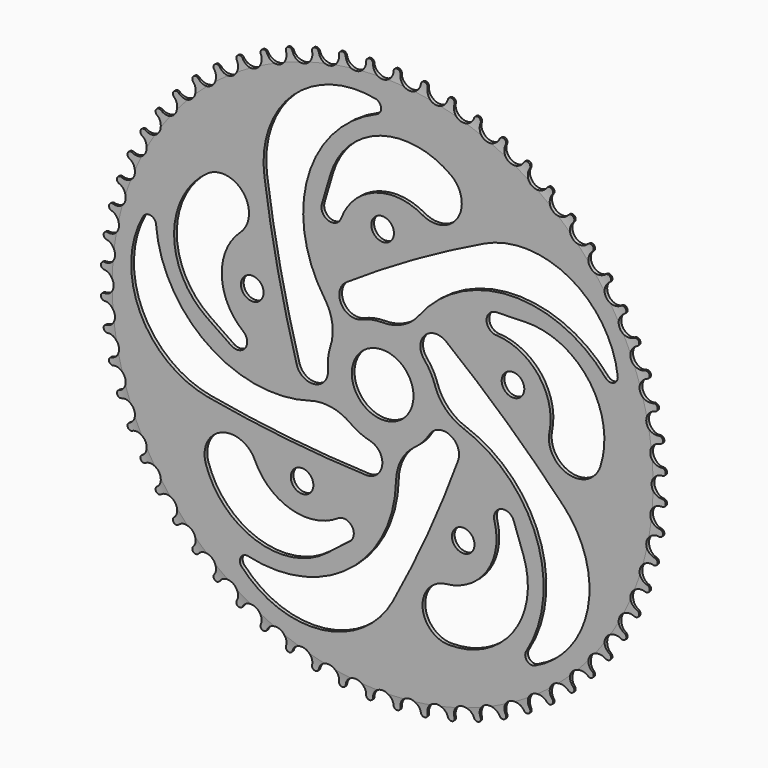
from build123d import *

# Parameters (mm, degrees)
F0_R     = 5.23875
F0_R_2   = 14.2875
F1_DEPTH = 0.79375
F2_R     = 38.496875


with BuildPart() as f1:
    # F0 (on Front) → F1 (new body, symmetric)
    with BuildSketch(Plane.XZ):
        with BuildLine():
            ThreePointArc((129.273471, 4.761693), (130.292423, 5.169305), (130.804615, 6.139908))
            ThreePointArc((130.804615, 6.139908), (130.79078, 6.427874), (130.776311, 6.715808))
            ThreePointArc((130.776311, 6.715808), (130.210506, 7.601786), (129.215535, 7.941087))
            ThreePointArc((129.215535, 7.941087), (124.003727, 12.163953), (128.184256, 17.40978))
            ThreePointArc((128.184256, 17.40978), (129.158348, 17.915304), (129.572939, 18.931437))
            ThreePointArc((129.572939, 18.931437), (129.530945, 19.21666), (129.488323, 19.50179))
            ThreePointArc((129.488323, 19.50179), (128.838401, 20.328043), (127.814964, 20.568186))
            ThreePointArc((127.814964, 20.568186), (122.214339, 24.259871), (125.860557, 29.890201))
            ThreePointArc((125.860557, 29.890201), (126.780409, 30.488769), (127.093404, 31.540646))
            ThreePointArc((127.093404, 31.540646), (127.023656, 31.820379), (126.953292, 32.099959))
            ThreePointArc((126.953292, 32.099959), (126.225512, 32.858529), (125.183465, 32.997202))
            ThreePointArc((125.183465, 32.997202), (119.247961, 36.122153), (122.324752, 42.082764))
            ThreePointArc((122.324752, 42.082764), (123.181505, 42.768611), (123.389891, 43.846101))
            ThreePointArc((123.389891, 43.846101), (123.29306, 44.117651), (123.195631, 44.388987))
            ThreePointArc((123.195631, 44.388987), (122.397003, 45.07257), (121.346381, 45.108437))
            ThreePointArc((121.346381, 45.108437), (115.133159, 47.636559), (117.610893, 53.870046))
            ThreePointArc((117.610893, 53.870046), (118.396295, 54.636567), (118.498065, 55.729294))
            ThreePointArc((118.498065, 55.729294), (118.375084, 55.990046), (118.251529, 56.250525))
            ThreePointArc((118.251529, 56.250525), (117.389744, 56.852538), (116.340665, 56.785252))
            ThreePointArc((116.340665, 56.785252), (109.909562, 58.692199), (111.764376, 65.138531))
            ThreePointArc((111.764376, 65.138531), (112.470864, 65.978343), (112.465039, 67.075784))
            ThreePointArc((112.465039, 67.075784), (112.317091, 67.323226), (112.1686, 67.570341))
            ThreePointArc((112.1686, 67.570341), (111.251957, 68.084984), (110.214525, 67.915195))
            ThreePointArc((110.214525, 67.915195), (103.627476, 69.182601), (104.841508, 75.779695))
            ThreePointArc((104.841508, 75.779695), (105.462278, 76.684712), (105.348912, 77.776297))
            ThreePointArc((105.348912, 77.776297), (105.177424, 78.008046), (105.005426, 78.239416))
            ThreePointArc((105.005426, 78.239416), (104.042753, 78.661735), (103.026959, 78.391077))
            ThreePointArc((103.026959, 78.391077), (96.347401, 79.006736), (96.908958, 85.69106))
            ThreePointArc((96.908958, 85.69106), (97.438032, 86.652565), (97.218218, 87.727782))
            ThreePointArc((97.218218, 87.727782), (97.02484, 87.941606), (96.830992, 88.155004))
            ThreePointArc((96.830992, 88.155004), (95.83156, 88.48093), (94.847186, 88.112011))
            ThreePointArc((94.847186, 88.112011), (88.139447, 88.069994), (88.043122, 94.777173))
            ThreePointArc((88.043122, 94.777173), (88.475405, 95.785906), (88.151259, 96.834401))
            ThreePointArc((88.151259, 96.834401), (87.937854, 97.028241), (87.724023, 97.22161))
            ThreePointArc((87.724023, 97.22161), (86.697457, 97.448006), (85.753984, 96.984377))
            ThreePointArc((85.753984, 96.984377), (79.082663, 96.28509), (78.329383, 102.95053))
            ThreePointArc((78.329383, 102.95053), (78.660711, 103.996777), (78.235356, 105.008451))
            ThreePointArc((78.235356, 105.008451), (78.003979, 105.18044), (77.772224, 105.351919))
            ThreePointArc((77.772224, 105.351919), (76.72841, 105.476604), (75.834924, 104.922731))
            ThreePointArc((75.834924, 104.922731), (69.264269, 103.572907), (67.861289, 110.132418))
            ThreePointArc((67.861289, 110.132418), (68.088471, 111.206102), (67.566003, 112.171213))
            ThreePointArc((67.566003, 112.171213), (67.318882, 112.319695), (67.071435, 112.467632))
            ThreePointArc((67.071435, 112.467632), (66.020427, 112.489405), (65.185532, 111.850622))
            ThreePointArc((65.185532, 111.850622), (58.778822, 109.863261), (56.739654, 116.253669))
            ThreePointArc((56.739654, 116.253669), (56.860503, 117.344452), (56.245953, 118.253704))
            ThreePointArc((56.245953, 118.253704), (55.985468, 118.377249), (55.724712, 118.50022))
            ThreePointArc((55.724712, 118.50022), (54.676631, 118.418871), (53.908368, 117.70133))
            ThreePointArc((53.908368, 117.70133), (47.727304, 115.095571), (45.071585, 121.255335))
            ThreePointArc((45.071585, 121.255335), (45.084936, 122.35271), (44.384223, 123.197348))
            ThreePointArc((44.384223, 123.197348), (44.112884, 123.294766), (43.84133, 123.391586))
            ThreePointArc((43.84133, 123.391586), (42.806269, 123.207899), (42.112036, 122.41851))
            ThreePointArc((42.112036, 122.41851), (36.216145, 119.219448), (32.969452, 125.089245))
            ThreePointArc((32.969452, 125.089245), (32.875177, 126.182645), (32.09505, 126.954533))
            ThreePointArc((32.09505, 126.954533), (31.815468, 127.024886), (31.535732, 127.094624))
            ThreePointArc((31.535732, 127.094624), (30.523659, 126.810367), (29.910143, 125.956733))
            ThreePointArc((29.910143, 125.956733), (24.356205, 122.195177), (20.549805, 127.718477))
            ThreePointArc((20.549805, 127.718477), (20.348812, 128.797372), (19.496783, 129.489077))
            ThreePointArc((19.496783, 129.489077), (19.211651, 129.531688), (18.926427, 129.573671))
            ThreePointArc((18.926427, 129.573671), (17.94709, 129.191582), (17.420199, 128.281924))
            ThreePointArc((17.420199, 128.281924), (12.261701, 123.9941), (7.932252, 129.117711))
            ThreePointArc((7.932252, 129.117711), (7.626477, 130.17171), (6.710751, 130.776571))
            ThreePointArc((6.710751, 130.776571), (6.422816, 130.791029), (6.13485, 130.804852))
            ThreePointArc((6.13485, 130.804852), (5.19768, 130.328612), (4.762488, 129.371689))
            ThreePointArc((4.762488, 129.371689), (0.049111, 124.598891), (-4.761693, 129.273471))
            ThreePointArc((-4.761693, 129.273471), (-5.169305, 130.292423), (-6.139908, 130.804615))
            ThreePointArc((-6.139908, 130.804615), (-6.427874, 130.79078), (-6.715808, 130.776311))
            ThreePointArc((-6.715808, 130.776311), (-7.601786, 130.210506), (-7.941087, 129.215535))
            ThreePointArc((-7.941087, 129.215535), (-12.163953, 124.003727), (-17.40978, 128.184256))
            ThreePointArc((-17.40978, 128.184256), (-17.915304, 129.158348), (-18.931437, 129.572939))
            ThreePointArc((-18.931437, 129.572939), (-19.21666, 129.530945), (-19.50179, 129.488323))
            ThreePointArc((-19.50179, 129.488323), (-20.328043, 128.838401), (-20.568186, 127.814964))
            ThreePointArc((-20.568186, 127.814964), (-24.259871, 122.214339), (-29.890201, 125.860557))
            ThreePointArc((-29.890201, 125.860557), (-30.488769, 126.780409), (-31.540646, 127.093404))
            ThreePointArc((-31.540646, 127.093404), (-31.820379, 127.023656), (-32.099959, 126.953292))
            ThreePointArc((-32.099959, 126.953292), (-32.858529, 126.225512), (-32.997202, 125.183465))
            ThreePointArc((-32.997202, 125.183465), (-36.122153, 119.247961), (-42.082764, 122.324752))
            ThreePointArc((-42.082764, 122.324752), (-42.768611, 123.181505), (-43.846101, 123.389891))
            ThreePointArc((-43.846101, 123.389891), (-44.117651, 123.29306), (-44.388987, 123.195631))
            ThreePointArc((-44.388987, 123.195631), (-45.07257, 122.397003), (-45.108437, 121.346381))
            ThreePointArc((-45.108437, 121.346381), (-47.636559, 115.133159), (-53.870046, 117.610893))
            ThreePointArc((-53.870046, 117.610893), (-54.636567, 118.396295), (-55.729294, 118.498065))
            ThreePointArc((-55.729294, 118.498065), (-55.990046, 118.375084), (-56.250525, 118.251529))
            ThreePointArc((-56.250525, 118.251529), (-56.852538, 117.389744), (-56.785252, 116.340665))
            ThreePointArc((-56.785252, 116.340665), (-58.692199, 109.909562), (-65.138531, 111.764376))
            ThreePointArc((-65.138531, 111.764376), (-65.978343, 112.470864), (-67.075784, 112.465039))
            ThreePointArc((-67.075784, 112.465039), (-67.323226, 112.317091), (-67.570341, 112.1686))
            ThreePointArc((-67.570341, 112.1686), (-68.084984, 111.251957), (-67.915195, 110.214525))
            ThreePointArc((-67.915195, 110.214525), (-69.182601, 103.627476), (-75.779695, 104.841508))
            ThreePointArc((-75.779695, 104.841508), (-76.684712, 105.462278), (-77.776297, 105.348912))
            ThreePointArc((-77.776297, 105.348912), (-78.008046, 105.177424), (-78.239416, 105.005426))
            ThreePointArc((-78.239416, 105.005426), (-78.661735, 104.042753), (-78.391077, 103.026959))
            ThreePointArc((-78.391077, 103.026959), (-79.006736, 96.347401), (-85.69106, 96.908958))
            ThreePointArc((-85.69106, 96.908958), (-86.652565, 97.438032), (-87.727782, 97.218218))
            ThreePointArc((-87.727782, 97.218218), (-87.941606, 97.02484), (-88.155004, 96.830992))
            ThreePointArc((-88.155004, 96.830992), (-88.48093, 95.83156), (-88.112011, 94.847186))
            ThreePointArc((-88.112011, 94.847186), (-88.069994, 88.139447), (-94.777173, 88.043122))
            ThreePointArc((-94.777173, 88.043122), (-95.785906, 88.475405), (-96.834401, 88.151259))
            ThreePointArc((-96.834401, 88.151259), (-97.028241, 87.937854), (-97.22161, 87.724023))
            ThreePointArc((-97.22161, 87.724023), (-97.448006, 86.697457), (-96.984377, 85.753984))
            ThreePointArc((-96.984377, 85.753984), (-96.28509, 79.082663), (-102.95053, 78.329383))
            ThreePointArc((-102.95053, 78.329383), (-103.996777, 78.660711), (-105.008451, 78.235356))
            ThreePointArc((-105.008451, 78.235356), (-105.18044, 78.003979), (-105.351919, 77.772224))
            ThreePointArc((-105.351919, 77.772224), (-105.476604, 76.72841), (-104.922731, 75.834924))
            ThreePointArc((-104.922731, 75.834924), (-103.572907, 69.264269), (-110.132418, 67.861289))
            ThreePointArc((-110.132418, 67.861289), (-111.206102, 68.088471), (-112.171213, 67.566003))
            ThreePointArc((-112.171213, 67.566003), (-112.319695, 67.318882), (-112.467632, 67.071435))
            ThreePointArc((-112.467632, 67.071435), (-112.489405, 66.020427), (-111.850622, 65.185532))
            ThreePointArc((-111.850622, 65.185532), (-109.863261, 58.778822), (-116.253669, 56.739654))
            ThreePointArc((-116.253669, 56.739654), (-117.344452, 56.860503), (-118.253704, 56.245953))
            ThreePointArc((-118.253704, 56.245953), (-118.377249, 55.985468), (-118.50022, 55.724712))
            ThreePointArc((-118.50022, 55.724712), (-118.418871, 54.676631), (-117.70133, 53.908368))
            ThreePointArc((-117.70133, 53.908368), (-115.095571, 47.727304), (-121.255335, 45.071585))
            ThreePointArc((-121.255335, 45.071585), (-122.35271, 45.084936), (-123.197348, 44.384223))
            ThreePointArc((-123.197348, 44.384223), (-123.294766, 44.112884), (-123.391586, 43.84133))
            ThreePointArc((-123.391586, 43.84133), (-123.207899, 42.806269), (-122.41851, 42.112036))
            ThreePointArc((-122.41851, 42.112036), (-119.219448, 36.216145), (-125.089245, 32.969452))
            ThreePointArc((-125.089245, 32.969452), (-126.182645, 32.875177), (-126.954533, 32.09505))
            ThreePointArc((-126.954533, 32.09505), (-127.024886, 31.815468), (-127.094624, 31.535732))
            ThreePointArc((-127.094624, 31.535732), (-126.810367, 30.523659), (-125.956733, 29.910143))
            ThreePointArc((-125.956733, 29.910143), (-122.195177, 24.356205), (-127.718477, 20.549805))
            ThreePointArc((-127.718477, 20.549805), (-128.797372, 20.348812), (-129.489077, 19.496783))
            ThreePointArc((-129.489077, 19.496783), (-129.531688, 19.211651), (-129.573671, 18.926427))
            ThreePointArc((-129.573671, 18.926427), (-129.191582, 17.94709), (-128.281924, 17.420199))
            ThreePointArc((-128.281924, 17.420199), (-123.9941, 12.261701), (-129.117711, 7.932252))
            ThreePointArc((-129.117711, 7.932252), (-130.17171, 7.626477), (-130.776571, 6.710751))
            ThreePointArc((-130.776571, 6.710751), (-130.791029, 6.422816), (-130.804852, 6.13485))
            ThreePointArc((-130.804852, 6.13485), (-130.328612, 5.19768), (-129.371689, 4.762488))
            ThreePointArc((-129.371689, 4.762488), (-124.598891, 0.049111), (-129.273471, -4.761693))
            ThreePointArc((-129.273471, -4.761693), (-130.292423, -5.169305), (-130.804615, -6.139908))
            ThreePointArc((-130.804615, -6.139908), (-130.79078, -6.427874), (-130.776311, -6.715808))
            ThreePointArc((-130.776311, -6.715808), (-130.210506, -7.601786), (-129.215535, -7.941087))
            ThreePointArc((-129.215535, -7.941087), (-124.003727, -12.163953), (-128.184256, -17.40978))
            ThreePointArc((-128.184256, -17.40978), (-129.158348, -17.915304), (-129.572939, -18.931437))
            ThreePointArc((-129.572939, -18.931437), (-129.530945, -19.21666), (-129.488323, -19.50179))
            ThreePointArc((-129.488323, -19.50179), (-128.838401, -20.328043), (-127.814964, -20.568186))
            ThreePointArc((-127.814964, -20.568186), (-122.214339, -24.259871), (-125.860557, -29.890201))
            ThreePointArc((-125.860557, -29.890201), (-126.780409, -30.488769), (-127.093404, -31.540646))
            ThreePointArc((-127.093404, -31.540646), (-127.023656, -31.820379), (-126.953292, -32.099959))
            ThreePointArc((-126.953292, -32.099959), (-126.225512, -32.858529), (-125.183465, -32.997202))
            ThreePointArc((-125.183465, -32.997202), (-119.247961, -36.122153), (-122.324752, -42.082764))
            ThreePointArc((-122.324752, -42.082764), (-123.181505, -42.768611), (-123.389891, -43.846101))
            ThreePointArc((-123.389891, -43.846101), (-123.29306, -44.117651), (-123.195631, -44.388987))
            ThreePointArc((-123.195631, -44.388987), (-122.397003, -45.07257), (-121.346381, -45.108437))
            ThreePointArc((-121.346381, -45.108437), (-115.133159, -47.636559), (-117.610893, -53.870046))
            ThreePointArc((-117.610893, -53.870046), (-118.396295, -54.636567), (-118.498065, -55.729294))
            ThreePointArc((-118.498065, -55.729294), (-118.375084, -55.990046), (-118.251529, -56.250525))
            ThreePointArc((-118.251529, -56.250525), (-117.389744, -56.852538), (-116.340665, -56.785252))
            ThreePointArc((-116.340665, -56.785252), (-109.909562, -58.692199), (-111.764376, -65.138531))
            ThreePointArc((-111.764376, -65.138531), (-112.470864, -65.978343), (-112.465039, -67.075784))
            ThreePointArc((-112.465039, -67.075784), (-112.317091, -67.323226), (-112.1686, -67.570341))
            ThreePointArc((-112.1686, -67.570341), (-111.251957, -68.084984), (-110.214525, -67.915195))
            ThreePointArc((-110.214525, -67.915195), (-103.627476, -69.182601), (-104.841508, -75.779695))
            ThreePointArc((-104.841508, -75.779695), (-105.462278, -76.684712), (-105.348912, -77.776297))
            ThreePointArc((-105.348912, -77.776297), (-105.177424, -78.008046), (-105.005426, -78.239416))
            ThreePointArc((-105.005426, -78.239416), (-104.042753, -78.661735), (-103.026959, -78.391077))
            ThreePointArc((-103.026959, -78.391077), (-96.347401, -79.006736), (-96.908958, -85.69106))
            ThreePointArc((-96.908958, -85.69106), (-97.438032, -86.652565), (-97.218218, -87.727782))
            ThreePointArc((-97.218218, -87.727782), (-97.02484, -87.941606), (-96.830992, -88.155004))
            ThreePointArc((-96.830992, -88.155004), (-95.83156, -88.48093), (-94.847186, -88.112011))
            ThreePointArc((-94.847186, -88.112011), (-88.139447, -88.069994), (-88.043122, -94.777173))
            ThreePointArc((-88.043122, -94.777173), (-88.475405, -95.785906), (-88.151259, -96.834401))
            ThreePointArc((-88.151259, -96.834401), (-87.937854, -97.028241), (-87.724023, -97.22161))
            ThreePointArc((-87.724023, -97.22161), (-86.697457, -97.448006), (-85.753984, -96.984377))
            ThreePointArc((-85.753984, -96.984377), (-79.082663, -96.28509), (-78.329383, -102.95053))
            ThreePointArc((-78.329383, -102.95053), (-78.660711, -103.996777), (-78.235356, -105.008451))
            ThreePointArc((-78.235356, -105.008451), (-78.003979, -105.18044), (-77.772224, -105.351919))
            ThreePointArc((-77.772224, -105.351919), (-76.72841, -105.476604), (-75.834924, -104.922731))
            ThreePointArc((-75.834924, -104.922731), (-69.264269, -103.572907), (-67.861289, -110.132418))
            ThreePointArc((-67.861289, -110.132418), (-68.088471, -111.206102), (-67.566003, -112.171213))
            ThreePointArc((-67.566003, -112.171213), (-67.318882, -112.319695), (-67.071435, -112.467632))
            ThreePointArc((-67.071435, -112.467632), (-66.020427, -112.489405), (-65.185532, -111.850622))
            ThreePointArc((-65.185532, -111.850622), (-58.778822, -109.863261), (-56.739654, -116.253669))
            ThreePointArc((-56.739654, -116.253669), (-56.860503, -117.344452), (-56.245953, -118.253704))
            ThreePointArc((-56.245953, -118.253704), (-55.985468, -118.377249), (-55.724712, -118.50022))
            ThreePointArc((-55.724712, -118.50022), (-54.676631, -118.418871), (-53.908368, -117.70133))
            ThreePointArc((-53.908368, -117.70133), (-47.727304, -115.095571), (-45.071585, -121.255335))
            ThreePointArc((-45.071585, -121.255335), (-45.084936, -122.35271), (-44.384223, -123.197348))
            ThreePointArc((-44.384223, -123.197348), (-44.112884, -123.294766), (-43.84133, -123.391586))
            ThreePointArc((-43.84133, -123.391586), (-42.806269, -123.207899), (-42.112036, -122.41851))
            ThreePointArc((-42.112036, -122.41851), (-36.216145, -119.219448), (-32.969452, -125.089245))
            ThreePointArc((-32.969452, -125.089245), (-32.875177, -126.182645), (-32.09505, -126.954533))
            ThreePointArc((-32.09505, -126.954533), (-31.815468, -127.024886), (-31.535732, -127.094624))
            ThreePointArc((-31.535732, -127.094624), (-30.523659, -126.810367), (-29.910143, -125.956733))
            ThreePointArc((-29.910143, -125.956733), (-24.356205, -122.195177), (-20.549805, -127.718477))
            ThreePointArc((-20.549805, -127.718477), (-20.348812, -128.797372), (-19.496783, -129.489077))
            ThreePointArc((-19.496783, -129.489077), (-19.211651, -129.531688), (-18.926427, -129.573671))
            ThreePointArc((-18.926427, -129.573671), (-17.94709, -129.191582), (-17.420199, -128.281924))
            ThreePointArc((-17.420199, -128.281924), (-12.261701, -123.9941), (-7.932252, -129.117711))
            ThreePointArc((-7.932252, -129.117711), (-7.626477, -130.17171), (-6.710751, -130.776571))
            ThreePointArc((-6.710751, -130.776571), (-6.422816, -130.791029), (-6.13485, -130.804852))
            ThreePointArc((-6.13485, -130.804852), (-5.19768, -130.328612), (-4.762488, -129.371689))
            ThreePointArc((-4.762488, -129.371689), (-0.049111, -124.598891), (4.761693, -129.273471))
            ThreePointArc((4.761693, -129.273471), (5.169305, -130.292423), (6.139908, -130.804615))
            ThreePointArc((6.139908, -130.804615), (6.427874, -130.79078), (6.715808, -130.776311))
            ThreePointArc((6.715808, -130.776311), (7.601786, -130.210506), (7.941087, -129.215535))
            ThreePointArc((7.941087, -129.215535), (12.163953, -124.003727), (17.40978, -128.184256))
            ThreePointArc((17.40978, -128.184256), (17.915304, -129.158348), (18.931437, -129.572939))
            ThreePointArc((18.931437, -129.572939), (19.21666, -129.530945), (19.50179, -129.488323))
            ThreePointArc((19.50179, -129.488323), (20.328043, -128.838401), (20.568186, -127.814964))
            ThreePointArc((20.568186, -127.814964), (24.259871, -122.214339), (29.890201, -125.860557))
            ThreePointArc((29.890201, -125.860557), (30.488769, -126.780409), (31.540646, -127.093404))
            ThreePointArc((31.540646, -127.093404), (31.820379, -127.023656), (32.099959, -126.953292))
            ThreePointArc((32.099959, -126.953292), (32.858529, -126.225512), (32.997202, -125.183465))
            ThreePointArc((32.997202, -125.183465), (36.122153, -119.247961), (42.082764, -122.324752))
            ThreePointArc((42.082764, -122.324752), (42.768611, -123.181505), (43.846101, -123.389891))
            ThreePointArc((43.846101, -123.389891), (44.117651, -123.29306), (44.388987, -123.195631))
            ThreePointArc((44.388987, -123.195631), (45.07257, -122.397003), (45.108437, -121.346381))
            ThreePointArc((45.108437, -121.346381), (47.636559, -115.133159), (53.870046, -117.610893))
            ThreePointArc((53.870046, -117.610893), (54.636567, -118.396295), (55.729294, -118.498065))
            ThreePointArc((55.729294, -118.498065), (55.990046, -118.375084), (56.250525, -118.251529))
            ThreePointArc((56.250525, -118.251529), (56.852538, -117.389744), (56.785252, -116.340665))
            ThreePointArc((56.785252, -116.340665), (58.692199, -109.909562), (65.138531, -111.764376))
            ThreePointArc((65.138531, -111.764376), (65.978343, -112.470864), (67.075784, -112.465039))
            ThreePointArc((67.075784, -112.465039), (67.323226, -112.317091), (67.570341, -112.1686))
            ThreePointArc((67.570341, -112.1686), (68.084984, -111.251957), (67.915195, -110.214525))
            ThreePointArc((67.915195, -110.214525), (69.182601, -103.627476), (75.779695, -104.841508))
            ThreePointArc((75.779695, -104.841508), (76.684712, -105.462278), (77.776297, -105.348912))
            ThreePointArc((77.776297, -105.348912), (78.008046, -105.177424), (78.239416, -105.005426))
            ThreePointArc((78.239416, -105.005426), (78.661735, -104.042753), (78.391077, -103.026959))
            ThreePointArc((78.391077, -103.026959), (79.006736, -96.347401), (85.69106, -96.908958))
            ThreePointArc((85.69106, -96.908958), (86.652565, -97.438032), (87.727782, -97.218218))
            ThreePointArc((87.727782, -97.218218), (87.941606, -97.02484), (88.155004, -96.830992))
            ThreePointArc((88.155004, -96.830992), (88.48093, -95.83156), (88.112011, -94.847186))
            ThreePointArc((88.112011, -94.847186), (88.069994, -88.139447), (94.777173, -88.043122))
            ThreePointArc((94.777173, -88.043122), (95.785906, -88.475405), (96.834401, -88.151259))
            ThreePointArc((96.834401, -88.151259), (97.028241, -87.937854), (97.22161, -87.724023))
            ThreePointArc((97.22161, -87.724023), (97.448006, -86.697457), (96.984377, -85.753984))
            ThreePointArc((96.984377, -85.753984), (96.28509, -79.082663), (102.95053, -78.329383))
            ThreePointArc((102.95053, -78.329383), (103.996777, -78.660711), (105.008451, -78.235356))
            ThreePointArc((105.008451, -78.235356), (105.18044, -78.003979), (105.351919, -77.772224))
            ThreePointArc((105.351919, -77.772224), (105.476604, -76.72841), (104.922731, -75.834924))
            ThreePointArc((104.922731, -75.834924), (103.572907, -69.264269), (110.132418, -67.861289))
            ThreePointArc((110.132418, -67.861289), (111.206102, -68.088471), (112.171213, -67.566003))
            ThreePointArc((112.171213, -67.566003), (112.319695, -67.318882), (112.467632, -67.071435))
            ThreePointArc((112.467632, -67.071435), (112.489405, -66.020427), (111.850622, -65.185532))
            ThreePointArc((111.850622, -65.185532), (109.863261, -58.778822), (116.253669, -56.739654))
            ThreePointArc((116.253669, -56.739654), (117.344452, -56.860503), (118.253704, -56.245953))
            ThreePointArc((118.253704, -56.245953), (118.377249, -55.985468), (118.50022, -55.724712))
            ThreePointArc((118.50022, -55.724712), (118.418871, -54.676631), (117.70133, -53.908368))
            ThreePointArc((117.70133, -53.908368), (115.095571, -47.727304), (121.255335, -45.071585))
            ThreePointArc((121.255335, -45.071585), (122.35271, -45.084936), (123.197348, -44.384223))
            ThreePointArc((123.197348, -44.384223), (123.294766, -44.112884), (123.391586, -43.84133))
            ThreePointArc((123.391586, -43.84133), (123.207899, -42.806269), (122.41851, -42.112036))
            ThreePointArc((122.41851, -42.112036), (119.219448, -36.216145), (125.089245, -32.969452))
            ThreePointArc((125.089245, -32.969452), (126.182645, -32.875177), (126.954533, -32.09505))
            ThreePointArc((126.954533, -32.09505), (127.024886, -31.815468), (127.094624, -31.535732))
            ThreePointArc((127.094624, -31.535732), (126.810367, -30.523659), (125.956733, -29.910143))
            ThreePointArc((125.956733, -29.910143), (122.195177, -24.356205), (127.718477, -20.549805))
            ThreePointArc((127.718477, -20.549805), (128.797372, -20.348812), (129.489077, -19.496783))
            ThreePointArc((129.489077, -19.496783), (129.531688, -19.211651), (129.573671, -18.926427))
            ThreePointArc((129.573671, -18.926427), (129.191582, -17.94709), (128.281924, -17.420199))
            ThreePointArc((128.281924, -17.420199), (123.9941, -12.261701), (129.117711, -7.932252))
            ThreePointArc((129.117711, -7.932252), (130.17171, -7.626477), (130.776571, -6.710751))
            ThreePointArc((130.776571, -6.710751), (130.791029, -6.422816), (130.804852, -6.13485))
            ThreePointArc((130.804852, -6.13485), (130.328612, -5.19768), (129.371689, -4.762488))
            ThreePointArc((129.371689, -4.762488), (124.598891, -0.049111), (129.273471, 4.761693))
        make_face()
        with BuildLine():
            ThreePointArc((-81.9175, -58.838009), (-74.628754, -43.702493), (-59.102985, -50.11811))
            ThreePointArc((-59.102985, -50.11811), (-42.446288, -64.556092), (-20.667631, -61.151536))
            ThreePointArc((-20.667631, -61.151536), (-14.23639, -62.315353), (-15.184994, -68.781841))
            Line((-15.184994, -68.781841), (-25.854146, -77.001296))
            ThreePointArc((-25.854146, -77.001296), (-43.835448, -84.170317), (-62.898487, -80.805414))
            ThreePointArc((-62.898487, -80.805414), (-74.66567, -71.776369), (-81.9175, -58.838009))
        make_face(mode=Mode.SUBTRACT)
        with Locations((-37.324364, -51.372579)):
            Circle(F0_R, mode=Mode.SUBTRACT)
        with BuildLine():
            ThreePointArc((-65.285916, -95.425944), (-65.697404, -91.659634), (-62.216675, -90.163326))
            ThreePointArc((-62.216675, -90.163326), (-15.386772, -79.988988), (6.203996, -37.205864))
            ThreePointArc((6.203996, -37.205864), (8.617137, -27.856072), (14.929745, -20.549032))
            ThreePointArc((14.929745, -20.549032), (18.689092, -17.2011), (21.714346, -13.177525))
            ThreePointArc((21.714346, -13.177525), (31.234703, -10.354376), (34.963414, -19.557858))
            ThreePointArc((34.963414, -19.557858), (21.079368, -53.579827), (4.8286, -86.536975))
            ThreePointArc((4.8286, -86.536975), (-27.939419, -109.038545), (-65.285916, -95.425944))
        make_face(mode=Mode.SUBTRACT)
        with BuildLine():
            ThreePointArc((-110.929923, 32.602357), (-107.475107, 34.157559), (-104.976429, 31.309574))
            ThreePointArc((-104.976429, 31.309574), (-80.828822, -10.084267), (-33.467739, -17.397595))
            ThreePointArc((-33.467739, -17.397595), (-23.829857, -16.803384), (-14.929745, -20.549032))
            ThreePointArc((-14.929745, -20.549032), (-10.583972, -23.089815), (-5.822469, -24.72365))
            ThreePointArc((-5.822469, -24.72365), (-0.195543, -32.905646), (-7.796339, -39.295894))
            ThreePointArc((-7.796339, -39.295894), (-44.44356, -36.604748), (-80.809434, -31.333667))
            ThreePointArc((-80.809434, -31.333667), (-112.335574, -7.122797), (-110.929923, 32.602357))
        make_face(mode=Mode.SUBTRACT)
        with BuildLine():
            ThreePointArc((30.644372, -96.090117), (18.501988, -84.480976), (29.401328, -71.697626))
            ThreePointArc((29.401328, -71.697626), (48.279868, -60.317748), (51.771918, -38.552949))
            ThreePointArc((51.771918, -38.552949), (54.866136, -32.796115), (60.722997, -35.696545))
            Line((60.722997, -35.696545), (65.243214, -48.383463))
            ThreePointArc((65.243214, -48.383463), (66.50483, -67.700046), (57.413814, -84.790263))
            ThreePointArc((57.413814, -84.790263), (45.190423, -93.19139), (30.644372, -96.090117))
        make_face(mode=Mode.SUBTRACT)
        with Locations((37.324364, -51.372579)):
            Circle(F0_R, mode=Mode.SUBTRACT)
        with BuildLine():
            ThreePointArc((70.581008, -91.578834), (66.871878, -90.806329), (66.524409, -87.033575))
            ThreePointArc((66.524409, -87.033575), (71.319274, -39.351647), (37.30202, -5.596893))
            ThreePointArc((37.30202, -5.596893), (29.15554, -0.412615), (24.156836, 7.849032))
            ThreePointArc((24.156836, 7.849032), (22.134466, 12.45895), (19.242673, 16.579491))
            ThreePointArc((19.242673, 16.579491), (19.499651, 26.50629), (29.404918, 27.208473))
            ThreePointArc((29.404918, 27.208473), (57.471326, 3.490594), (83.793673, -22.149124))
            ThreePointArc((83.793673, -22.149124), (95.068064, -60.26673), (70.581008, -91.578834))
        make_face(mode=Mode.SUBTRACT)
        with BuildLine():
            ThreePointArc((-81.272171, 59.726227), (-64.625094, 57.471349), (-65.928982, 40.722931))
            ThreePointArc((-65.928982, 40.722931), (-74.513116, 20.419889), (-64.545216, 0.759221))
            ThreePointArc((-64.545216, 0.759221), (-63.664709, -5.716891), (-70.107839, -6.81297))
            Line((-70.107839, -6.81297), (-81.221955, 0.794045))
            ThreePointArc((-81.221955, 0.794045), (-93.596627, 15.67993), (-96.287217, 34.84977))
            ThreePointArc((-96.287217, 34.84977), (-91.336345, 48.831154), (-81.272171, 59.726227))
        make_face(mode=Mode.SUBTRACT)
        with Locations((-60.392089, 19.622579)):
            Circle(F0_R, mode=Mode.SUBTRACT)
        with BuildLine():
            ThreePointArc((-3.272547, 115.575309), (-0.725865, 112.770167), (-2.662326, 109.513707))
            ThreePointArc((-2.662326, 109.513707), (-34.568187, 73.756568), (-26.888197, 26.453559))
            ThreePointArc((-26.888197, 26.453559), (-23.344798, 17.471009), (-24.156836, 7.849032))
            ThreePointArc((-24.156836, 7.849032), (-25.230346, 2.93081), (-25.31283, -2.102531))
            ThreePointArc((-25.31283, -2.102531), (-31.355555, -9.982432), (-39.781817, -4.72834))
            ThreePointArc((-39.781817, -4.72834), (-48.546999, 30.956849), (-54.771577, 67.171703))
            ThreePointArc((-54.771577, 67.171703), (-41.487784, 104.636414), (-3.272547, 115.575309))
        make_face(mode=Mode.SUBTRACT)
        Circle(F0_R_2, mode=Mode.SUBTRACT)
        with Locations((60.392089, 19.622579)):
            Circle(F0_R, mode=Mode.SUBTRACT)
        with Locations((0, 63.5)):
            Circle(F0_R, mode=Mode.SUBTRACT)
        with BuildLine():
            ThreePointArc((0, 25.4), (-5.00924, 24.901155), (-9.82172, 23.424214))
            ThreePointArc((-9.82172, 23.424214), (-19.183256, 26.736164), (-16.790176, 36.373619))
            ThreePointArc((-16.790176, 36.373619), (14.439865, 55.737132), (46.958738, 72.848063))
            ThreePointArc((46.958738, 72.848063), (86.694714, 71.791658), (108.907378, 38.827112))
            ThreePointArc((108.907378, 38.827112), (107.026498, 35.538237), (103.331021, 36.373619))
            ThreePointArc((103.331021, 36.373619), (59.464508, 55.668333), (16.84992, 33.746794))
            ThreePointArc((16.84992, 33.746794), (9.401978, 27.601061), (0, 25.4))
        make_face(mode=Mode.SUBTRACT)
        with BuildLine():
            ThreePointArc((100.856763, -0.548949), (86.063611, -8.509621), (77.274005, 5.80654))
            ThreePointArc((77.274005, 5.80654), (72.284887, 27.277674), (52.664436, 37.324504))
            ThreePointArc((52.664436, 37.324504), (48.145527, 42.046239), (52.71387, 46.720163))
            Line((52.71387, 46.720163), (66.17667, 47.098671))
            ThreePointArc((66.17667, 47.098671), (84.937693, 42.329387), (98.382176, 28.40215))
            ThreePointArc((98.382176, 28.40215), (102.594887, 14.180923), (100.856763, -0.548949))
        make_face(mode=Mode.SUBTRACT)
        with BuildLine():
            ThreePointArc((-24.343782, 77.492043), (-14.010449, 93.861046), (3.389715, 102.343756))
            ThreePointArc((3.389715, 102.343756), (18.216704, 101.955682), (31.688536, 95.750847))
            ThreePointArc((31.688536, 95.750847), (34.688249, 79.221741), (18.356633, 75.286265))
            ThreePointArc((18.356633, 75.286265), (-3.605351, 77.176277), (-19.223507, 61.620761))
            ThreePointArc((-19.223507, 61.620761), (-25.110563, 58.78212), (-28.144033, 64.571194))
            Line((-28.144033, 64.571194), (-24.343782, 77.492043))
        make_face(mode=Mode.SUBTRACT)
    extrude(amount=F1_DEPTH, both=True)

    # F2 (on Top) → F3 (revolve, cut)
    with BuildSketch(Plane.XY):
        with Locations((-130.776571, 38.89375)):
            Circle(F2_R)
        with Locations((-130.776571, -38.89375)):
            Circle(F2_R)
    revolve(axis=Axis((0, 1.481298, 0), (0, -1, 0)), mode=Mode.SUBTRACT)


solid = f1.part
